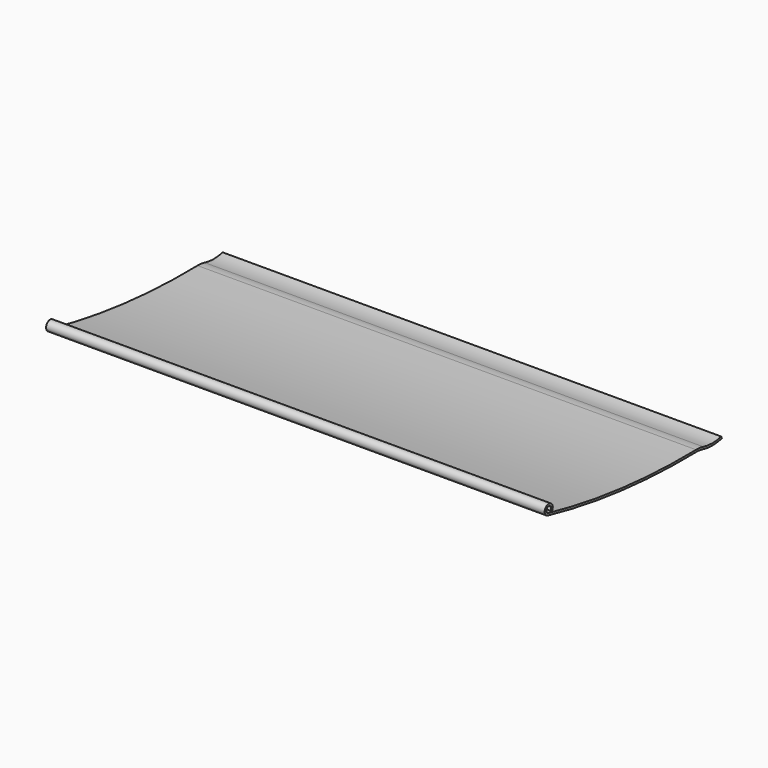
from build123d import *

# Parameters (mm, degrees)
F1_DEPTH = 200.025


with BuildPart() as f1:
    # F0 (on Right) → F1 (new body)
    with BuildSketch(Plane.YZ):
        with BuildLine():
            ThreePointArc((-8.171769, 12.697839), (-6.45352, 12.613001), (-4.7625, 12.296722))
            ThreePointArc((-4.7625, 12.296722), (0, 11.691805), (4.7625, 12.296722))
            Line((4.7625, 12.296722), (4.442676, 13.067105))
            ThreePointArc((4.442676, 13.067105), (-0.058537, 12.517399), (-4.556125, 13.096009))
            ThreePointArc((-4.556125, 13.096009), (-6.357061, 13.432846), (-8.186997, 13.523199))
            ThreePointArc((-8.186997, 13.523199), (-45.515007, 15.131094), (-82.363786, 21.306293))
            ThreePointArc((-82.363786, 21.306293), (-82.446265, 23.634898), (-81.206031, 21.66233))
            Line((-81.206031, 21.66233), (-80.468639, 21.259022))
            ThreePointArc((-80.468639, 21.259022), (-82.786126, 24.391329), (-82.55, 20.50207))
            ThreePointArc((-82.55, 20.50207), (-45.60115, 14.310101), (-8.171769, 12.697839))
        make_face()
    extrude(amount=F1_DEPTH)


solid = f1.part
